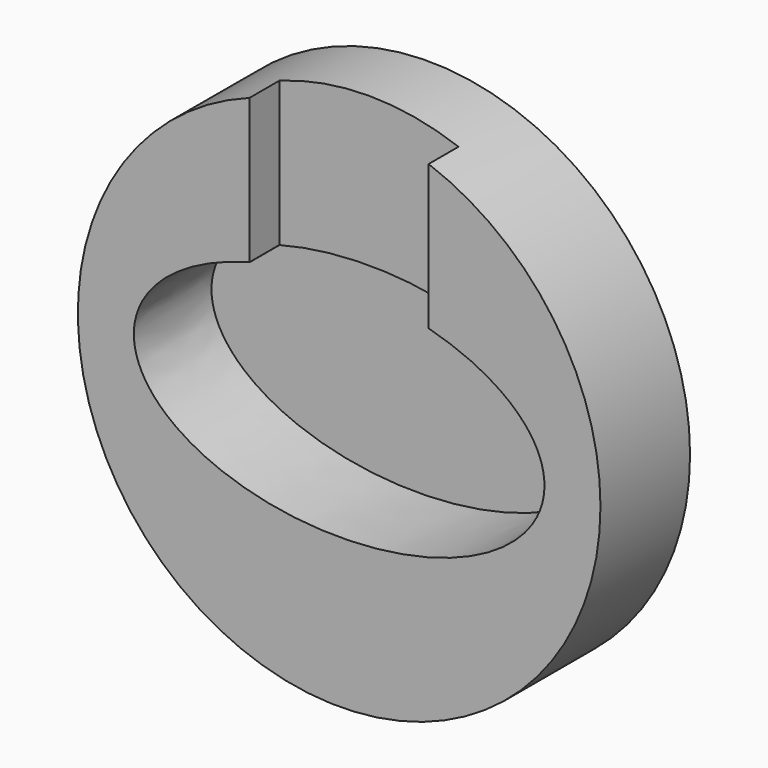
from build123d import *

# Parameters (mm, degrees)
F0_R     = 35
F1_DEPTH = 15
F3_DEPTH = 13
F4_W     = 24
F4_H     = 24
F5_DEPTH = 5


with BuildPart() as f1:
    # F0 (on Front) → F1 (new body)
    with BuildSketch(Plane.XZ):
        Circle(F0_R)
    extrude(amount=F1_DEPTH)

    # F2 (on face) → F3 (cut)
    with BuildSketch(Plane.XZ.offset(15)):
        with BuildLine():
            add(Edge.make_bspline(
                [(-27.5, 0), (-27.5, -25.980762), (13.75, -12.990381), (55, 0), (13.75, 12.990381), (-27.5, 25.980762), (-27.5, 0)],
                knots=[0, 0, 0, 2.094395, 2.094395, 4.18879, 4.18879, 6.283185, 6.283185, 6.283185], degree=2, weights=[1, 0.5, 1, 0.5, 1, 0.5, 1]))
        make_face()
    extrude(amount=-F3_DEPTH, mode=Mode.SUBTRACT)

    # F4 (on face) → F5 (cut)
    with BuildSketch(Plane.XZ.offset(15)):
        with Locations((-0.013028, 25.5)):
            Rectangle(F4_W, F4_H)
    extrude(amount=-F5_DEPTH, mode=Mode.SUBTRACT)


solid = f1.part
